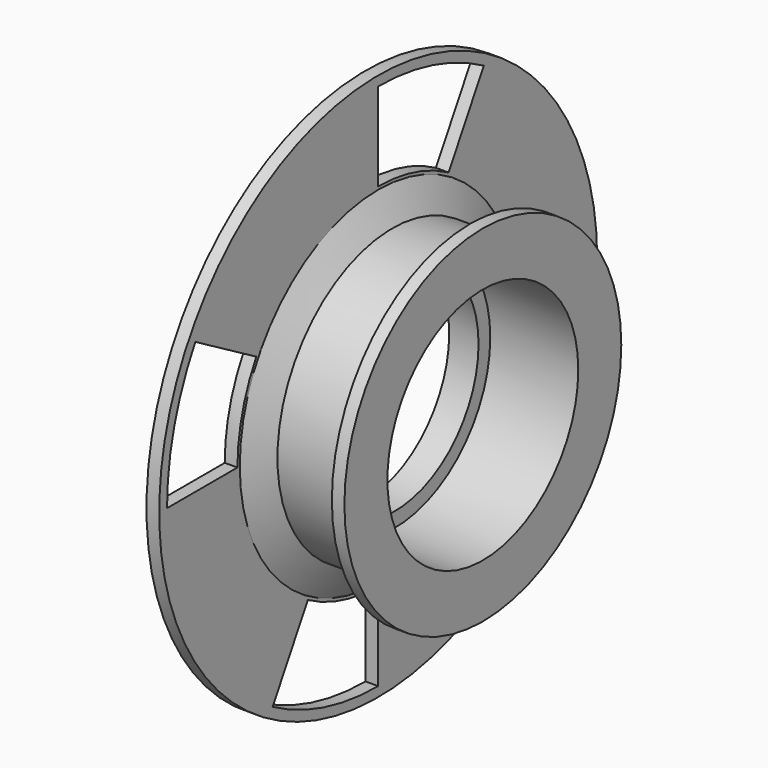
from build123d import *

# Parameters (mm, degrees)
SKETCH001_R        = 28
SKETCH001_R_2      = 17.7
PAD_DEPTH          = 1.3
POCKET_DEPTH       = 159.714257
POLARPATTERN_COUNT = 4


with BuildPart() as body001:
    # Sketch001 → Pad (new body)
    with BuildSketch(Plane.YZ):
        Circle(SKETCH001_R)
        Circle(SKETCH001_R_2, mode=Mode.SUBTRACT)
    extrude(amount=PAD_DEPTH)

    # Sketch002 (on Face4 of Pad) → Pocket (cut, through all)
    with BuildSketch(Plane.YZ.offset(1.3)):
        with BuildLine():
            ThreePointArc((-23.382686, 13.5), (-26.079997, 6.988114), (-27, 0))
            Line((-27, 0), (-18, 0))
            ThreePointArc((-15.588457, 9), (-17.386665, 4.658743), (-18, 0))
            Line((-23.382686, 13.5), (-15.588457, 9))
        make_face()
    pocket = extrude(amount=-POCKET_DEPTH, mode=Mode.SUBTRACT)

    # PolarPattern: Pocket ×4 about axis
    polarpattern_axis = Axis((0, 0, 0), (1, 0, 0))
    for i in range(1, POLARPATTERN_COUNT):
        add(pocket.rotate(polarpattern_axis, i * 360 / POLARPATTERN_COUNT), mode=Mode.SUBTRACT)


with BuildPart() as body001_1:
    # Body001 placement: moved
    add(body001.part.moved(Location((-6, 0, 0))))


with BuildPart() as fusion:
    # Sketch → Revolution (revolve)
    with BuildSketch(Plane.XY):
        Polygon((-6, 12.2), (-6, 17.7), (-4.717735, 17.7), (-3.25, 14.7), (3.25, 14.7), (4.717735, 17.7), (6, 17.7), (6, 12.2), (-3, 12.2), (-3, 10.7), (-6, 10.7), align=None)
    revolve(axis=Axis((0, 0, 0), (1, 0, 0)))

    # Fusion: union Body001
    add(body001_1.part)


solid = fusion.part
